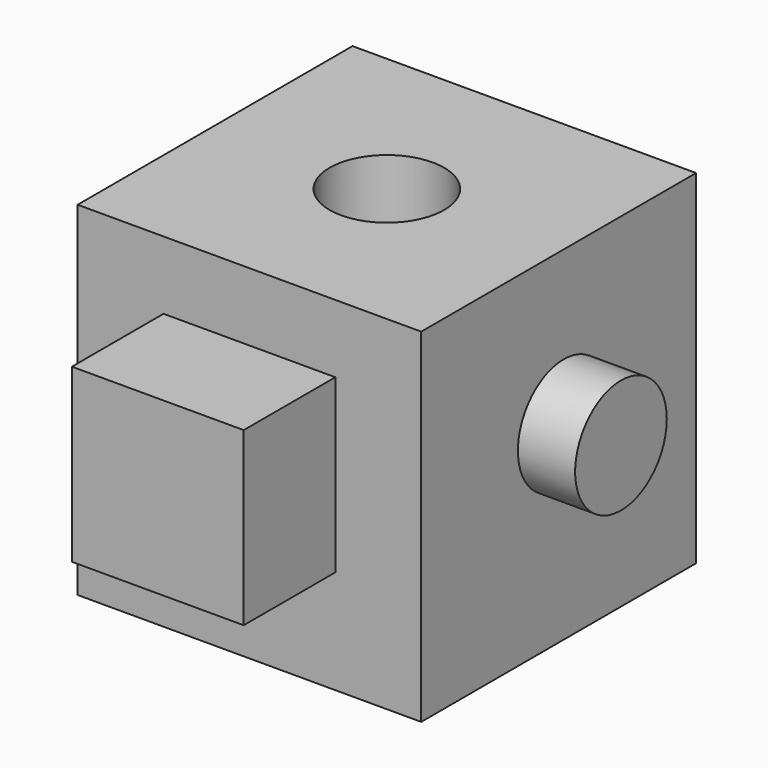
from build123d import *

# Parameters (mm, degrees)
F0_W     = 76.2
F0_H     = 76.2
F1_DEPTH = 76.2
F3_D     = 25.4
F4_W     = 38.1
F4_H     = 38.1
F5_DEPTH = 25.4
F6_R     = 12.7
F7_DEPTH = 12.7


with BuildPart() as f1:
    # F0 (on Front) → F1 (new body)
    with BuildSketch(Plane.XZ):
        with Locations((0, -3.953981)):
            Rectangle(F0_W, F0_H)
    extrude(amount=-F1_DEPTH)

    # F3 (through all)
    with Locations(Plane.XY.offset(34.146019)):
        with Locations((0, 38.1)):
            Hole(F3_D / 2)

    # F4 (on face) → F5 (join)
    with BuildSketch(Plane.XZ):
        Rectangle(F4_W, F4_H)
    extrude(amount=F5_DEPTH)

    # F6 (on face) → F7 (join)
    with BuildSketch(Plane.YZ.offset(38.1)):
        with Locations((39.500758, 0)):
            Circle(F6_R)
    extrude(amount=F7_DEPTH)


solid = f1.part
